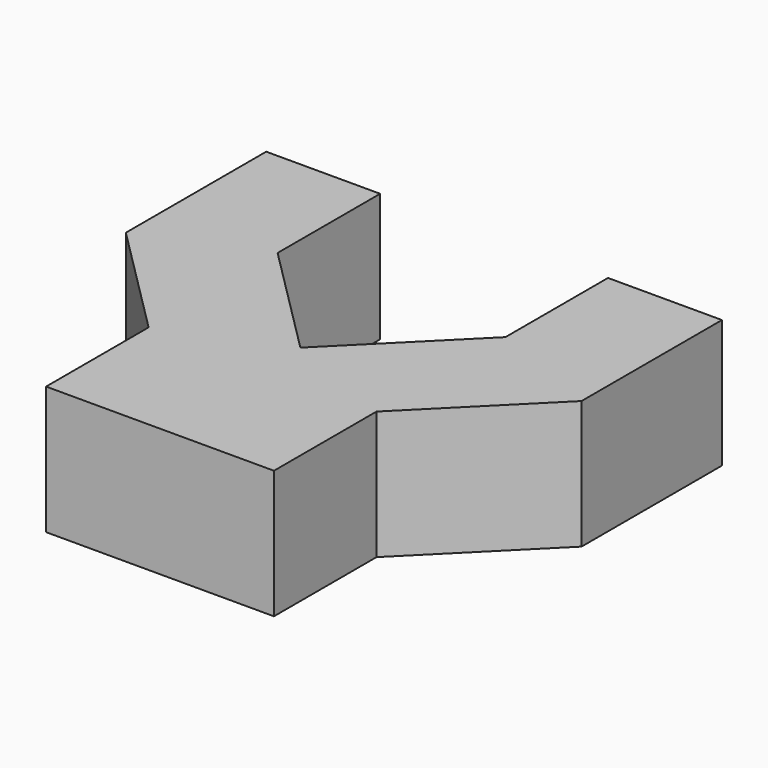
from build123d import *

# Parameters (mm, degrees)
F1_DEPTH = 4.5


with BuildPart() as f1:
    # F0 (on Top) → F1 (new body)
    with BuildSketch(Plane.XY):
        Polygon((12.648669, 5.072099), (12.648669, -1.087901), (16.648669, -1.087901), (16.648669, 3.412099), (20.648669, 7.412099), (20.648669, 13.572099), (16.648669, 13.572099), (16.648669, 9.072099), align=None)
        Polygon((8.648669, -1.087901), (12.648669, -1.087901), (12.648669, 5.072099), (8.648669, 9.072099), (8.648669, 13.572099), (4.648669, 13.572099), (4.648669, 7.412099), (8.648669, 3.412099), align=None)
    extrude(amount=F1_DEPTH)


solid = f1.part
